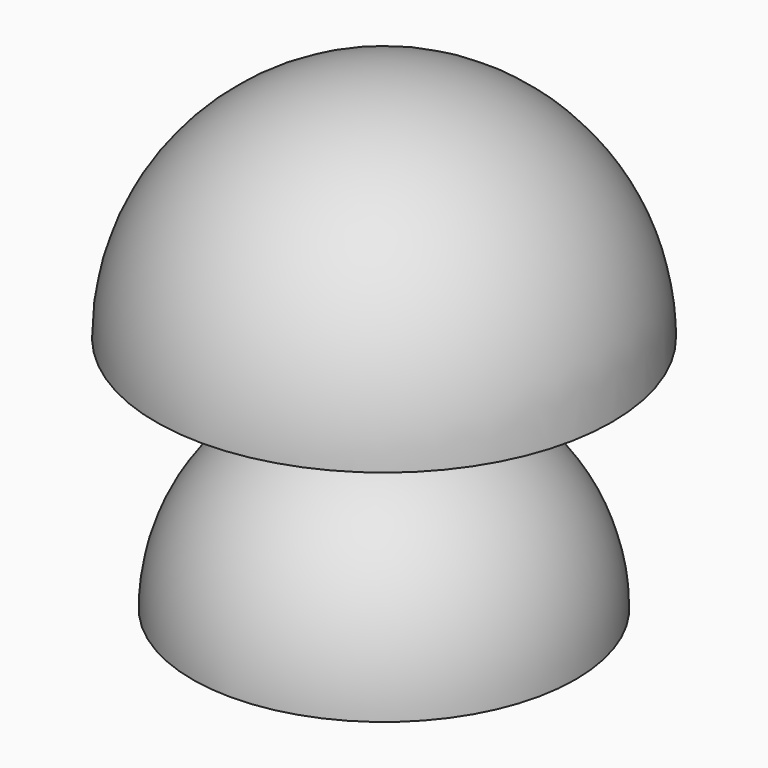
from build123d import *

# Parameters (mm, degrees)
F1_ANGLE_BACK = 180
F1_ANGLE      = 180
F2_ANGLE      = 180


with BuildPart() as f1:
    # F0 (on Top) → F1 (revolve)
    with BuildSketch(Plane.XY, mode=Mode.PRIVATE) as f1_sk:
        with BuildLine():
            Line((0, -53.34), (0, 53.34))
            ThreePointArc((0, 53.34), (-53.34, 0), (0, -53.34))
        make_face()
    revolve(f1_sk.sketch.rotate(Axis((0, 0, 0), (0, -1, 0)), -F1_ANGLE_BACK), axis=Axis((0, 0, 0), (0, -1, 0)), revolution_arc=F1_ANGLE)


with BuildPart() as f2:
    # F0 (on Top) → F2 (revolve)
    with BuildSketch(Plane.XY):
        with BuildLine():
            Line((0, 58.42), (0, 63.5))
            ThreePointArc((0, 63.5), (-63.5, 0), (0, -63.5))
            Line((0, -63.5), (0, -58.42))
            ThreePointArc((0, -58.42), (-58.42, 0), (0, 58.42))
        make_face()
    revolve(axis=Axis((0, 55.88, 0), (0, 1, 0)), revolution_arc=F2_ANGLE)


with BuildPart() as f2_1:
    # F4: moved
    add(f2.part.moved(Location((0, 0, 66.4214864373))))


solid = Compound([f1.part, f2_1.part])
